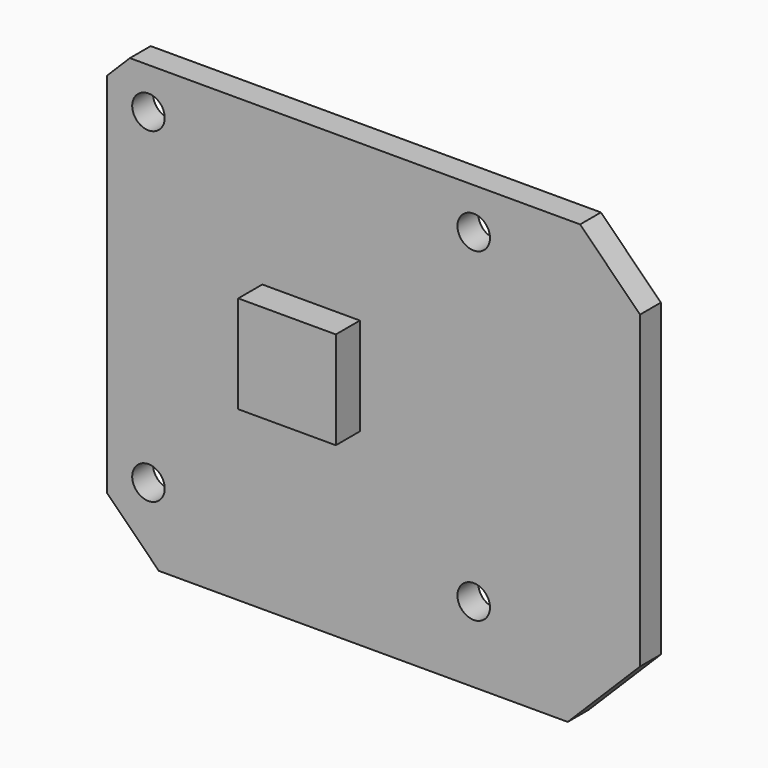
from build123d import *

# Parameters (mm, degrees)
SKETCH154_R   = 1
SKETCH154_R_2 = 2.5
PAD078_DEPTH  = 1.6
SKETCH157_W   = 6
SKETCH157_H   = 6
PAD080_DEPTH  = 1.85


with BuildPart() as part:
    # Sketch154 → Pad078 (new body)
    with BuildSketch(Plane.XZ):
        Polygon((0.634909, -4.572), (-2.54, -1.397091), (-2.54, 21.208909), (-1.142757, 22.606152), (26.542463, 22.606152), (30.225783, 18.922833), (30.225783, -0.127127), (25.780909, -4.572), align=None)
        with Locations((0, 20.066152)):
            Circle(SKETCH154_R, mode=Mode.SUBTRACT)
        Circle(SKETCH154_R, mode=Mode.SUBTRACT)
        with Locations((20, 20.066152)):
            Circle(SKETCH154_R, mode=Mode.SUBTRACT)
        with Locations((20, 0.066152)):
            Circle(SKETCH154_R, mode=Mode.SUBTRACT)
        with Locations((10, 10)):
            Circle(SKETCH154_R_2, mode=Mode.SUBTRACT)
    extrude(amount=PAD078_DEPTH)

    # Sketch157 (on Face15 of Pad078) → Pad080 (join)
    with BuildSketch(Plane.XZ.offset(1.6)):
        with Locations((10, 10)):
            Rectangle(SKETCH157_W, SKETCH157_H)
    extrude(amount=PAD080_DEPTH)


with BuildPart() as part_1:
    # Body062 placement: moved
    add(part.part.moved(Location((5, 12, 12))))


solid = part_1.part
